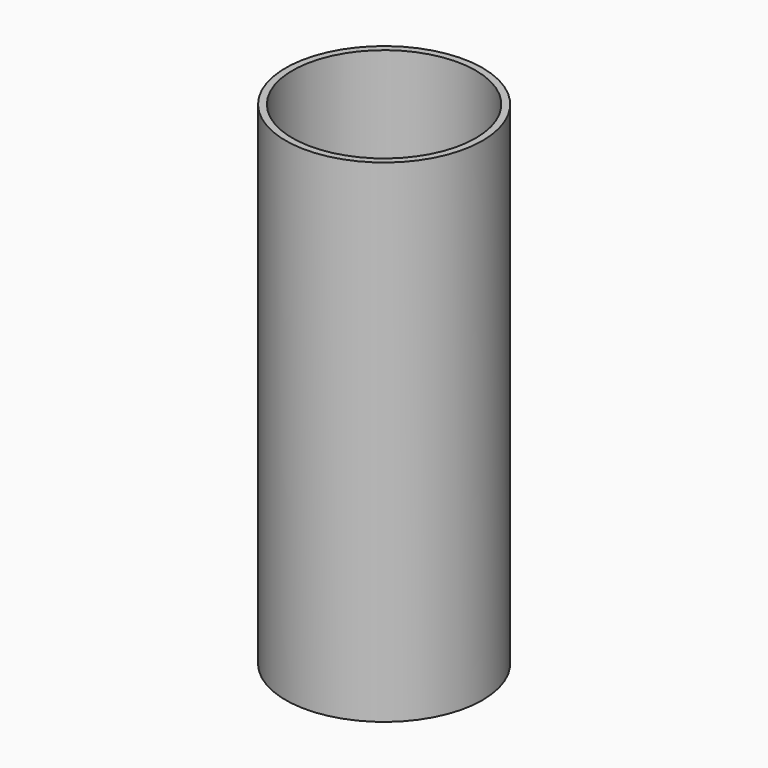
from build123d import *

# Parameters (mm, degrees)
CYLINDER001_R     = 9.3
CYLINDER001_DEPTH = 49.5
CYLINDER_R        = 10
CYLINDER_DEPTH    = 50


with BuildPart() as cylinder001:
    # Cylinder001 → Cylinder001 (new body)
    with BuildSketch(Plane.XY.offset(0.5)):
        Circle(CYLINDER001_R)
    extrude(amount=CYLINDER001_DEPTH)


with BuildPart() as cut:
    # Cylinder → Cylinder (new body)
    with BuildSketch(Plane.XY):
        Circle(CYLINDER_R)
    extrude(amount=CYLINDER_DEPTH)

    # Cut: cut Cylinder001
    add(cylinder001.part, mode=Mode.SUBTRACT)


solid = cut.part
